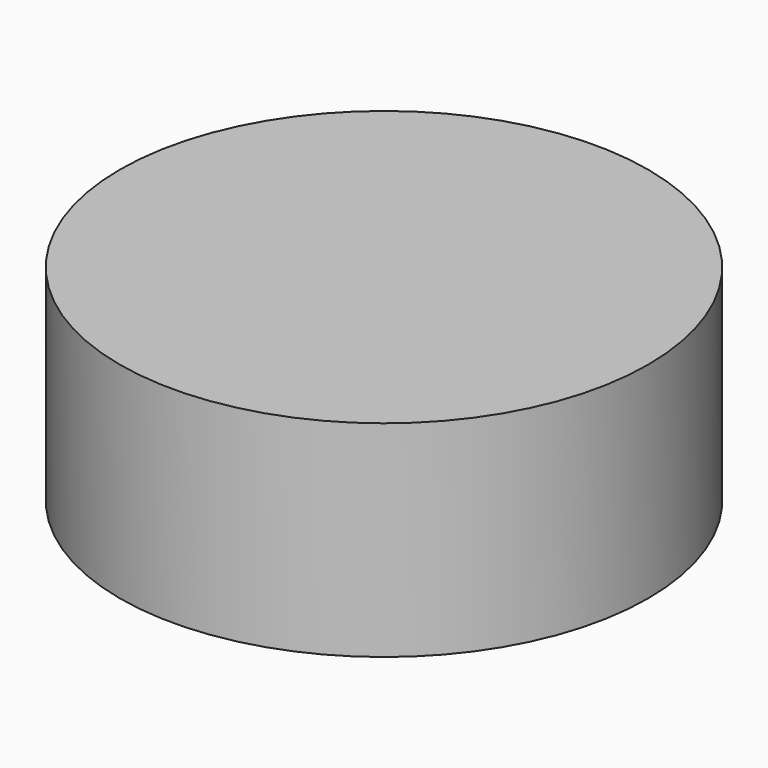
from build123d import *

# Parameters (mm, degrees)
CYLINDER_R     = 19.2532
CYLINDER_DEPTH = 15


with BuildPart() as part:
    # Cylinder → Cylinder (new body)
    with BuildSketch(Plane.XY.offset(-2.5)):
        Circle(CYLINDER_R)
    extrude(amount=CYLINDER_DEPTH)


solid = part.part
